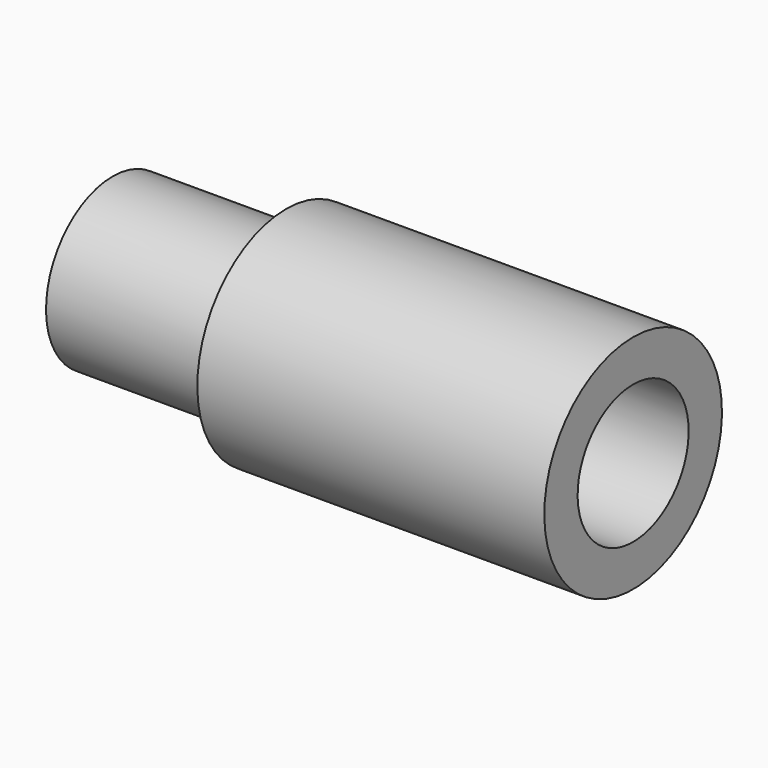
from build123d import *


with BuildPart() as part:
    # Sketch → Revolution (revolve)
    with BuildSketch(Plane.XZ):
        Polygon((13, 0), (-12.5, 0), (-12.5, 6), (0, 6), (0, 8), (25, 8), (25, 5), (13, 5), align=None)
    revolve(axis=Axis((0, 0, 0), (1, 0, 0)))


solid = part.part
